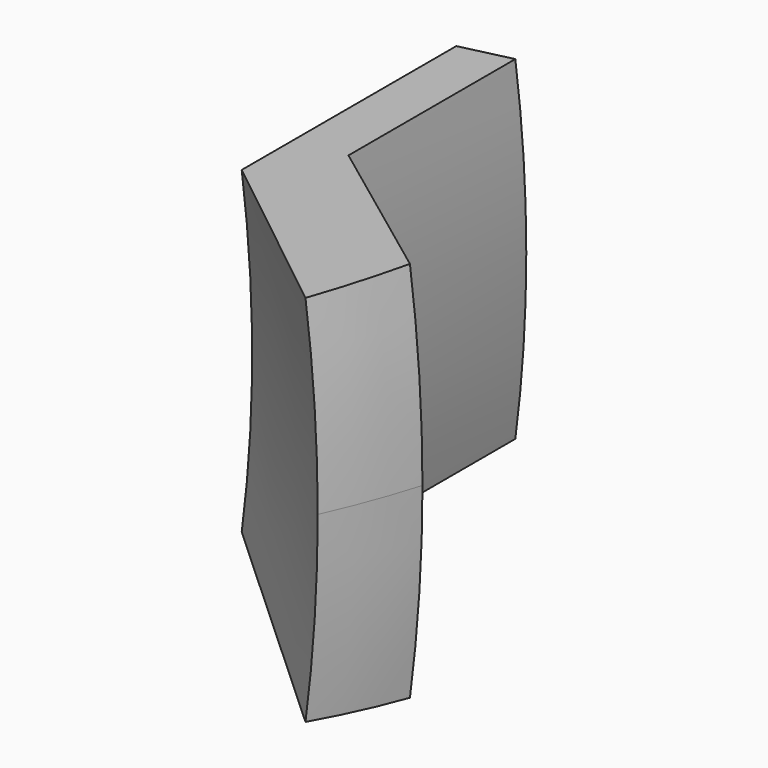
from build123d import *

# Parameters (mm, degrees)
F1_ANGLE = 15


with BuildPart() as f1:
    # F0 (on Top) → F1 (revolve, symmetric)
    with BuildSketch(Plane.XY) as f1_sk:
        with BuildLine():
            Line((40.988395, -3.125822), (47.988395, -9.125822))
            add(Edge.make_bspline(
                [(47.988395, -9.125822), (48.655789, -7.643054), (49.103786, -6.125822)],
                knots=[5.998563, 5.998563, 5.998563, 6.093564, 6.093564, 6.093564], degree=2, weights=[1, 0.998872, 1]))
            Line((49.103786, -6.125822), (42.988395, -1.125822))
            Line((42.988395, -1.125822), (42.988395, 5.874178))
            Line((42.988395, 5.874178), (40.988395, 5.874178))
            Line((40.988395, 5.874178), (40.988395, -3.125822))
        make_face()
    revolve(axis=Axis((0, 4.998505, 0), (0, -1, 0)), revolution_arc=F1_ANGLE / 2)
    revolve(f1_sk.sketch, axis=Axis((0, 4.998505, 0), (0, 1, 0)), revolution_arc=F1_ANGLE / 2)


solid = f1.part
